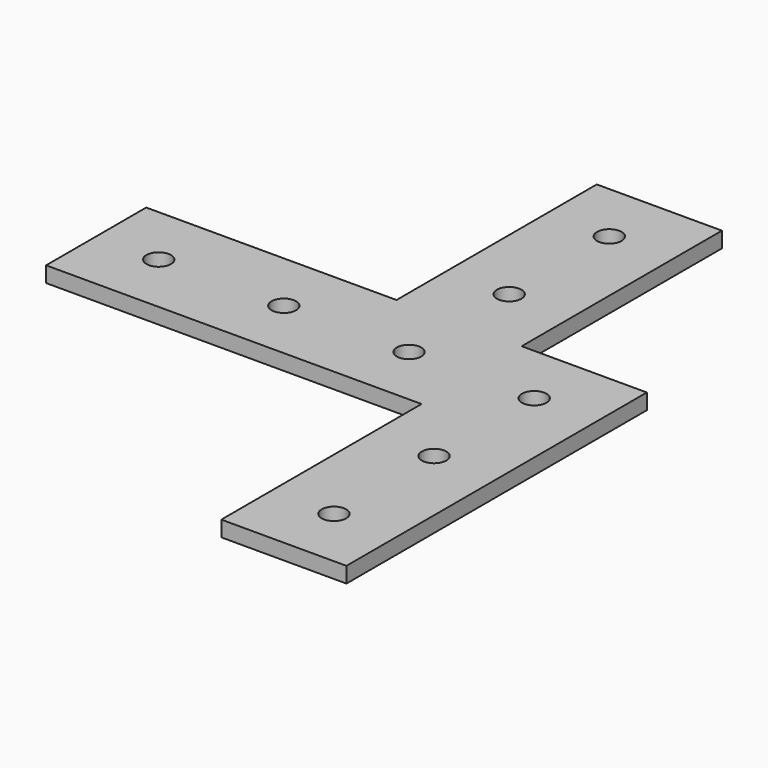
from build123d import *

# Parameters (mm, degrees)
F0_R     = 2.4892
F1_DEPTH = 3.175


with BuildPart() as f1:
    # F0 (on Top) → F1 (new body)
    with BuildSketch(Plane.XY):
        Polygon((-88.9, 63.5), (-88.9, 38.1), (-12.7, 38.1), (-12.7, -12.7), (12.7, -12.7), (12.7, 63.5), (-12.7, 63.5), (-12.7, 114.3), (-38.1, 114.3), (-38.1, 63.5), align=None)
        Circle(F0_R, mode=Mode.SUBTRACT)
        with Locations((0, 25.4)):
            Circle(F0_R, mode=Mode.SUBTRACT)
        with Locations((-76.2, 50.8)):
            Circle(F0_R, mode=Mode.SUBTRACT)
        with Locations((-50.8, 50.8)):
            Circle(F0_R, mode=Mode.SUBTRACT)
        with Locations((-25.4, 50.8)):
            Circle(F0_R, mode=Mode.SUBTRACT)
        with Locations((-25.4, 76.2)):
            Circle(F0_R, mode=Mode.SUBTRACT)
        with Locations((0, 50.8)):
            Circle(F0_R, mode=Mode.SUBTRACT)
        with Locations((-25.4, 101.6)):
            Circle(F0_R, mode=Mode.SUBTRACT)
    extrude(amount=F1_DEPTH)


solid = f1.part
